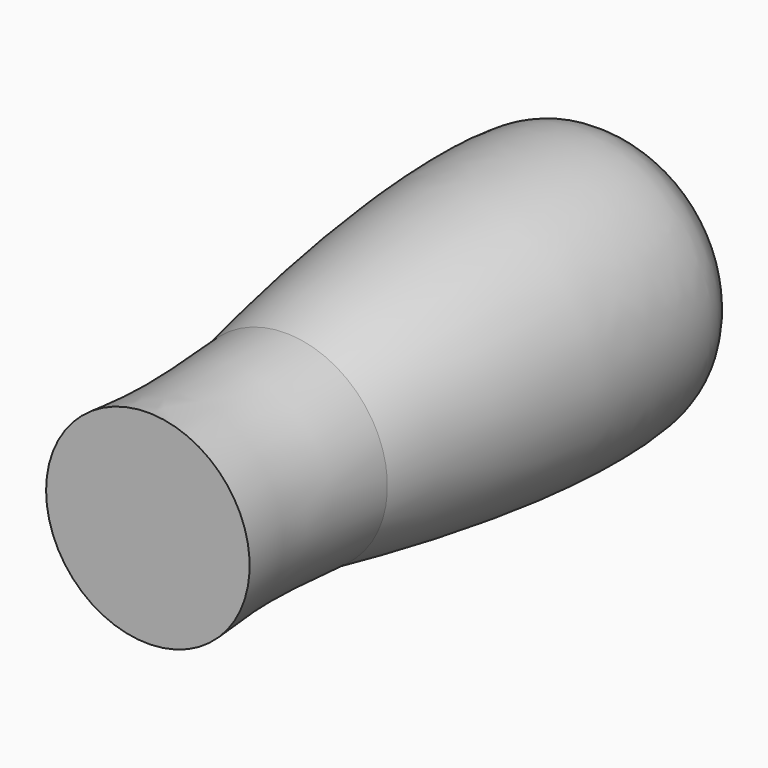
from build123d import *

# Parameters (mm, degrees)
F2_R     = 6.8115
F3_DEPTH = 10


with BuildPart() as f1:
    # F0 (on Top) → F1 (revolve)
    with BuildSketch(Plane.XY):
        with BuildLine():
            Line((0, -60), (0, 30))
            Line((0, 30), (-6.8113161251, 30))
            add(Edge.make_bspline(
                [(-6.8113161251, 30), (-8.8285469757, 29.4947528509), (-12.9677049795, 28.4580357192), (-18.5378714588, 23.3251278396), (-20.6177914254, 17.5320263744), (-20.4352303111, -0.6064519779), (-17.4524161302, -21.8051325396), (-15.7377292661, -30.7625562649), (-15, -34.6164107323)],
                knots=[0, 0, 0, 0, 0.1253607453, 0.257227839, 0.3768753162, 0.5872097816, 0.8224005611, 1, 1, 1, 1], degree=3))
            add(Edge.make_bspline(
                [(-15, -34.6164107323), (-14.6681324569, -39.7345104782), (-14.054386089, -49.1997781575), (-14.702388298, -56.6008617608), (-15, -60)],
                knots=[0, 0, 0, 0, 0.5407242478, 1, 1, 1, 1], degree=3))
            Line((-15, -60), (0, -60))
        make_face()
    revolve(axis=Axis((0, -15, 0), (0, -1, 0)))

    # F2 (on face) → F3 (cut)
    with BuildSketch(Plane(origin=(0, 30, 0), x_dir=(-1, 0, 0), z_dir=(0, 1, 0))):
        Circle(F2_R)
    extrude(amount=-F3_DEPTH, mode=Mode.SUBTRACT)


solid = f1.part
